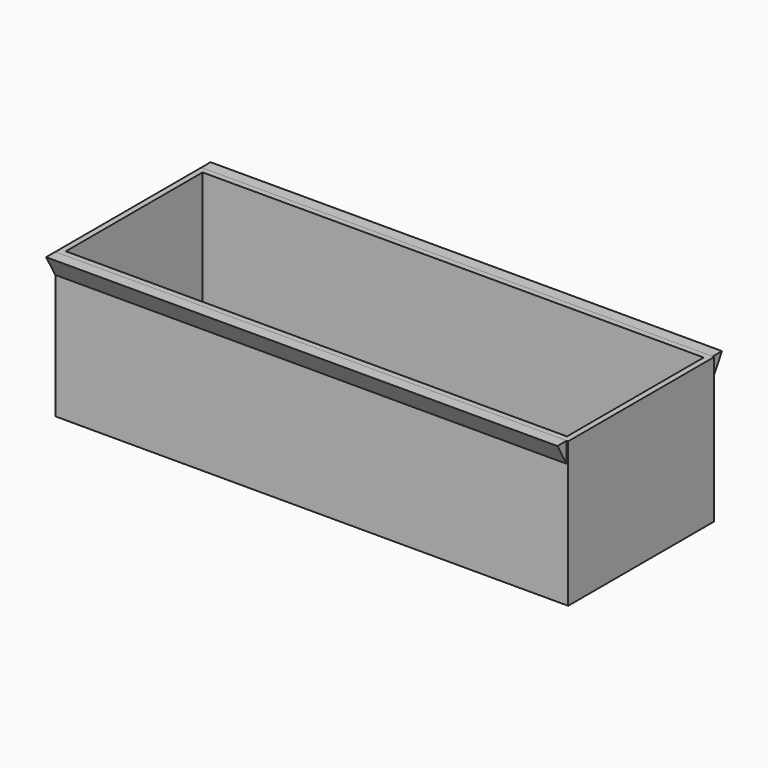
from build123d import *

# Parameters (mm, degrees)
F0_W     = 70.210844
F0_H     = 19.829821
F1_DEPTH = 25
F2_T     = -0.8
F4_DEPTH = 70


with BuildPart() as f1:
    # F0 (on Front) → F1 (new body)
    with BuildSketch(Plane.XZ):
        with Locations((35.105422, 9.91491)):
            Rectangle(F0_W, F0_H)
    extrude(amount=F1_DEPTH)

    # F2
    f2_openings = [f1.faces().sort_by_distance(p)[0] for p in [
        (35.105422, -12.5, 19.829821),
    ]]
    offset(amount=F2_T, openings=f2_openings)


with BuildPart() as f4:
    # F3 (on face) → F4 (new body)
    with BuildSketch(Plane(origin=(0, 0, 0), x_dir=(0, -1, 0), z_dir=(-1, 0, 0))):
        Polygon((26.576297, 19.829821), (25, 19.829821), (25, 17.046046), align=None)
        Polygon((0, 17.046046), (0, 19.829821), (-1.576297, 19.829821), align=None)
    extrude(amount=-F4_DEPTH)


solid = Compound([f1.part, f4.part])
